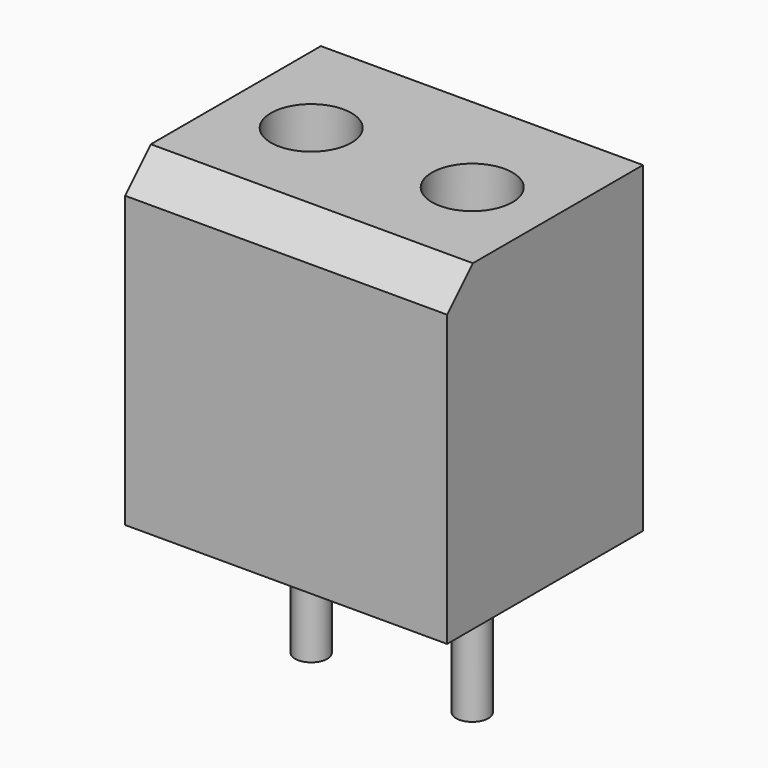
from build123d import *

# Parameters (mm, degrees)
CYLINDER_R        = 0.5
CYLINDER_DEPTH    = 4.35
CYLINDER001_R     = 0.5
CYLINDER001_DEPTH = 4.35
BOX001_W          = 9
BOX001_H          = 6
BOX001_DEPTH      = 5
CYLINDER003_R     = 1.25
CYLINDER003_DEPTH = 5
CYLINDER002_R     = 1.25
CYLINDER002_DEPTH = 5
BOX_W             = 10
BOX_H             = 7.6
BOX_DEPTH         = 10
CHAMFER_SIZE      = 1


with BuildPart() as cylinder:
    # Cylinder → Cylinder (new body)
    with BuildSketch(Plane(origin=(2.5, 4.1, -4.35), x_dir=(1, 0, 0), z_dir=(0, 0, 1))):
        Circle(CYLINDER_R)
    extrude(amount=CYLINDER_DEPTH)


with BuildPart() as cylinder001:
    # Cylinder001 → Cylinder001 (new body)
    with BuildSketch(Plane(origin=(7.5, 4.1, -4.35), x_dir=(1, 0, 0), z_dir=(0, 0, 1))):
        Circle(CYLINDER001_R)
    extrude(amount=CYLINDER001_DEPTH)


with BuildPart() as cube001:
    # Box001 → Box001 (new body)
    with BuildSketch(Plane(origin=(0.5, 2, 0.5), x_dir=(1, 0, 0), z_dir=(0, 0, 1))):
        with Locations((4.5, 3)):
            Rectangle(BOX001_W, BOX001_H)
    extrude(amount=BOX001_DEPTH)


with BuildPart() as cylinder003:
    # Cylinder003 → Cylinder003 (new body)
    with BuildSketch(Plane(origin=(7.5, 4.1, 5), x_dir=(1, 0, 0), z_dir=(0, 0, 1))):
        Circle(CYLINDER003_R)
    extrude(amount=CYLINDER003_DEPTH)


with BuildPart() as cylinder002:
    # Cylinder002 → Cylinder002 (new body)
    with BuildSketch(Plane(origin=(2.5, 4.1, 5), x_dir=(1, 0, 0), z_dir=(0, 0, 1))):
        Circle(CYLINDER002_R)
    extrude(amount=CYLINDER002_DEPTH)


with BuildPart() as chamfer_body:
    # Box → Box (new body)
    with BuildSketch(Plane.XY):
        with Locations((5, 3.8)):
            Rectangle(BOX_W, BOX_H)
    extrude(amount=BOX_DEPTH)

    # Cut: cut Cylinder002
    add(cylinder002.part, mode=Mode.SUBTRACT)

    # Cut001: cut Cylinder003
    add(cylinder003.part, mode=Mode.SUBTRACT)

    # Cut002: cut Cube001
    add(cube001.part, mode=Mode.SUBTRACT)

    # Chamfer
    chamfer_edges = [chamfer_body.edges().sort_by_distance(p)[0] for p in [
        (5, 0, 10),
    ]]
    chamfer(chamfer_edges, length=CHAMFER_SIZE)


solid = Compound([cylinder.part, cylinder001.part, chamfer_body.part])
